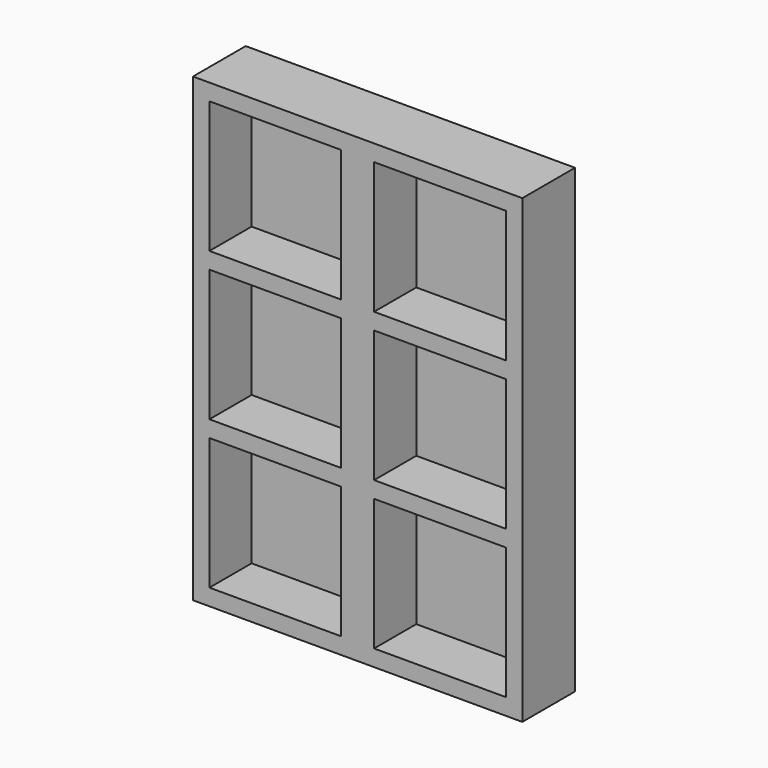
from build123d import *

# Parameters (mm, degrees)
F0_W     = 127
F0_H     = 177.8
F0_W_2   = 50.8
F0_H_2   = 6.35
F1_DEPTH = 25.4
F0_H_3   = 50.8
F2_DEPTH = 5.08


with BuildPart() as f1:
    # F0 (on Front) → F1 (new body)
    with BuildSketch(Plane.XZ):
        Rectangle(F0_W, F0_H)
        Polygon((-57.15, 31.75), (-57.15, 82.55), (-6.35, 82.55), (6.35, 82.55), (57.15, 82.55), (57.15, 31.75), (57.15, 25.4), (57.15, -25.4), (57.15, -31.75), (57.15, -82.55), (6.35, -82.55), (-6.35, -82.55), (-57.15, -82.55), (-57.15, -31.75), (-57.15, -25.4), (-57.15, 25.4), align=None, mode=Mode.SUBTRACT)
        with Locations((-31.75, 28.575)):
            Rectangle(F0_W_2, F0_H_2)
        with Locations((31.75, 28.575)):
            Rectangle(F0_W_2, F0_H_2)
        Polygon((6.35, 82.55), (-6.35, 82.55), (-6.35, 31.75), (-6.35, 25.4), (-6.35, -25.4), (-6.35, -31.75), (-6.35, -82.55), (6.35, -82.55), (6.35, -31.75), (6.35, -25.4), (6.35, 25.4), (6.35, 31.75), align=None)
        with Locations((31.75, -28.575)):
            Rectangle(F0_W_2, F0_H_2)
        with Locations((-31.75, -28.575)):
            Rectangle(F0_W_2, F0_H_2)
    extrude(amount=F1_DEPTH)


with BuildPart() as f2:
    # F0 (on Front) → F2 (new body)
    with BuildSketch(Plane.XZ):
        with Locations((-31.75, 57.15)):
            Rectangle(F0_W_2, F0_H_3)
    extrude(amount=F2_DEPTH)


with BuildPart() as f2b:
    # F0 (on Front) → F2, piece 2 (new body)
    with BuildSketch(Plane.XZ):
        with Locations((31.75, 57.15)):
            Rectangle(F0_W_2, F0_H_3)
    extrude(amount=F2_DEPTH)


with BuildPart() as f2c:
    # F0 (on Front) → F2, piece 3 (new body)
    with BuildSketch(Plane.XZ):
        with Locations((31.75, 0)):
            Rectangle(F0_W_2, F0_H_3)
    extrude(amount=F2_DEPTH)


with BuildPart() as f2d:
    # F0 (on Front) → F2, piece 4 (new body)
    with BuildSketch(Plane.XZ):
        with Locations((-31.75, 0)):
            Rectangle(F0_W_2, F0_H_3)
    extrude(amount=F2_DEPTH)


with BuildPart() as f2e:
    # F0 (on Front) → F2, piece 5 (new body)
    with BuildSketch(Plane.XZ):
        with Locations((-31.75, -57.15)):
            Rectangle(F0_W_2, F0_H_3)
    extrude(amount=F2_DEPTH)


with BuildPart() as f2f:
    # F0 (on Front) → F2, piece 6 (new body)
    with BuildSketch(Plane.XZ):
        with Locations((31.75, -57.15)):
            Rectangle(F0_W_2, F0_H_3)
    extrude(amount=F2_DEPTH)


solid = Compound([f1.part, f2.part, f2b.part, f2c.part, f2d.part, f2e.part, f2f.part])
